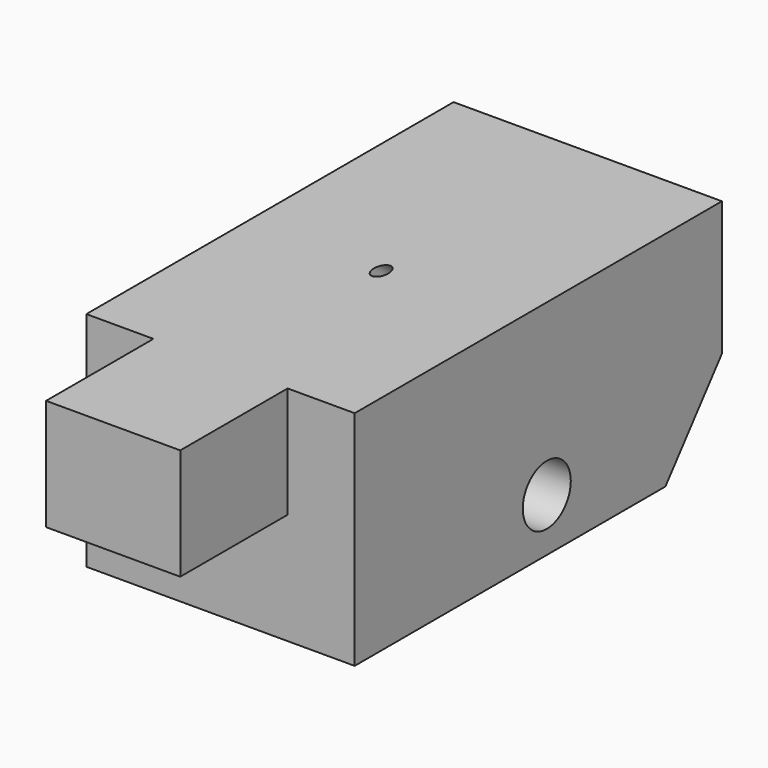
from build123d import *

# Parameters (mm, degrees)
F0_W     = 76
F0_H     = 130
F1_DEPTH = 63
F2_SIZE2 = 25
F2_SIZE  = 20
F3_R     = 2
F4_DEPTH = 125.2523570347
F5_R     = 8.5
F6_DEPTH = 76.001
F7_W     = 38
F7_H     = 31.5
F8_DEPTH = 38


with BuildPart() as f1:
    # F0 (on Top) → F1 (new body)
    with BuildSketch(Plane.XY):
        Rectangle(F0_W, F0_H)
    extrude(amount=F1_DEPTH)

    # F2
    f2_edges = [f1.edges().sort_by_distance(p)[0] for p in [
        (0, 65, 0),
    ]]
    f2_side = f1.faces().sort_by_distance((0, 0, 0))[0]
    chamfer(f2_edges, length=F2_SIZE, length2=F2_SIZE2, reference=f2_side)

    # F3 (on face) → F4 (cut, through all)
    with BuildSketch(Plane(origin=(0, 27.4390243902, -21.9512195122), x_dir=(-1, 0, 0), z_dir=(0, 0.7808688094, -0.6246950476))):
        with Locations((0, 44.1190877335)):
            Circle(F3_R)
    extrude(amount=-F4_DEPTH, mode=Mode.SUBTRACT)

    # F5 (on face) → F6 (cut, through all)
    with BuildSketch(Plane.YZ.offset(38)):
        with Locations((3, 15)):
            Circle(F5_R)
    extrude(amount=-F6_DEPTH, mode=Mode.SUBTRACT)

    # F7 (on face) → F8 (join)
    with BuildSketch(Plane.XZ.offset(65)):
        with Locations((0, 47.25)):
            Rectangle(F7_W, F7_H)
    extrude(amount=F8_DEPTH)


solid = f1.part
